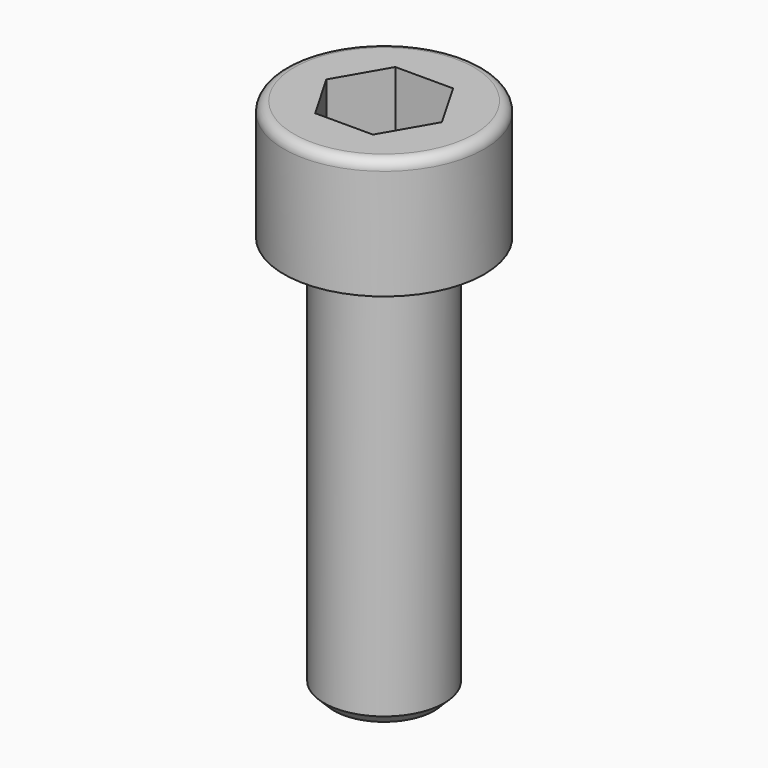
from build123d import *

# Parameters (mm, degrees)
SKETCH_R     = 5
PAD_DEPTH    = 6
POCKET_DEPTH = 4
SKETCH002_R  = 3
PAD001_DEPTH = 20
FILLET_R     = 0.5
CHAMFER_SIZE = 0.5


with BuildPart() as part:
    # Sketch → Pad (new body)
    with BuildSketch(Plane.XY):
        Circle(SKETCH_R)
    extrude(amount=PAD_DEPTH)

    # Sketch001 (on Face3 of Pad) → Pocket (cut)
    with BuildSketch(Plane.XY.offset(6)):
        Polygon((2.886751, 0), (1.443376, 2.5), (-1.443376, 2.5), (-2.886751, 0), (-1.443376, -2.5), (1.443376, -2.5), align=None)
    extrude(amount=-POCKET_DEPTH, mode=Mode.SUBTRACT)

    # Sketch002 → Pad001 (join)
    with BuildSketch(Plane.XY):
        Circle(SKETCH002_R)
    extrude(amount=-PAD001_DEPTH)

    # Fillet
    fillet_edges = [part.edges().sort_by_distance(p)[0] for p in [
        (-5, 0, 6),
    ]]
    fillet(fillet_edges, radius=FILLET_R)

    # Chamfer
    chamfer_edges = [part.edges().sort_by_distance(p)[0] for p in [
        (-3, 0, -20),
    ]]
    chamfer(chamfer_edges, length=CHAMFER_SIZE)


solid = part.part
